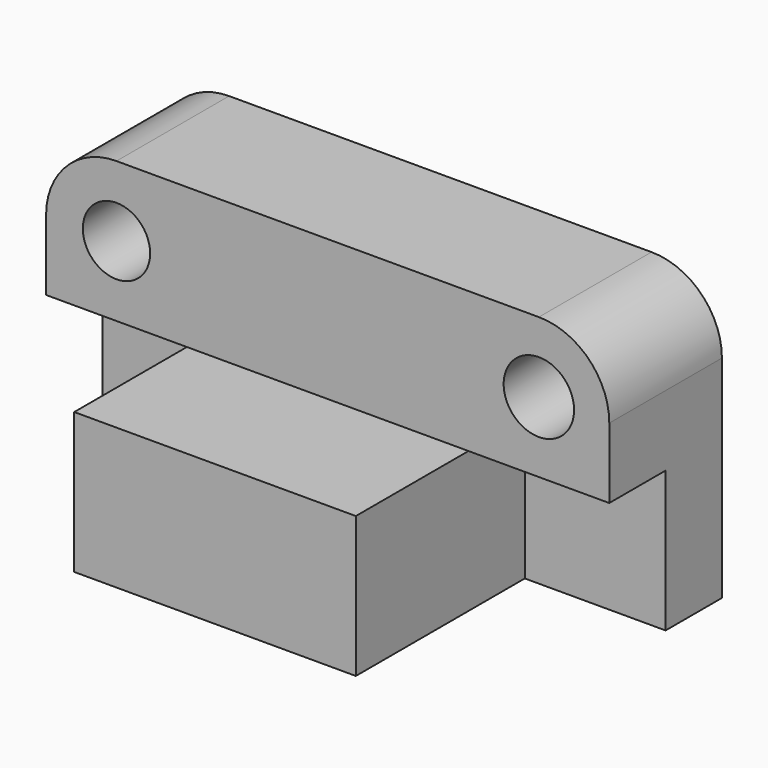
from build123d import *

# Parameters (mm, degrees)
F0_W      = 203.2
F0_H      = 101.6
F1_DEPTH  = 76.2
F2_W      = 50.8
F2_H      = 50.8
F3_DEPTH  = 76.2
F4_W      = 50.8
F4_H      = 25.4
F5_DEPTH  = 50.8
F6_W      = 152.4
F6_H      = 25.4
F7_DEPTH  = 50.8
F8_W      = 50.8
F8_H      = 50.8
F9_DEPTH  = 76.2
F10_W     = 203.2
F10_H     = 50.8
F11_DEPTH = 25.4
F12_R     = 25.4
F13_R     = 25.4
F14_R     = 12.147807
F15_DEPTH = 76.2
F16_R     = 12.7
F17_DEPTH = 50.801


with BuildPart() as f1:
    # F0 (on Top) → F1 (new body)
    with BuildSketch(Plane.XY):
        with Locations((-52.603766, -35.422396)):
            Rectangle(F0_W, F0_H)
    extrude(amount=F1_DEPTH)

    # F2 (on face) → F3 (cut)
    with BuildSketch(Plane.XZ.offset(86.222396)):
        with Locations((23.596234, 25.4)):
            Rectangle(F2_W, F2_H)
    extrude(amount=-F3_DEPTH, mode=Mode.SUBTRACT)

    # F4 (on face) → F5 (cut)
    with BuildSketch(Plane.XZ.offset(86.222396)):
        with Locations((23.596234, 63.5)):
            Rectangle(F4_W, F4_H)
    extrude(amount=-F5_DEPTH, mode=Mode.SUBTRACT)

    # F6 (on face) → F7 (cut)
    with BuildSketch(Plane.XZ.offset(86.222396)):
        with Locations((-78.003766, 63.5)):
            Rectangle(F6_W, F6_H)
    extrude(amount=-F7_DEPTH, mode=Mode.SUBTRACT)

    # F8 (on face) → F9 (cut)
    with BuildSketch(Plane.XZ.offset(86.222396)):
        with Locations((-128.803766, 25.4)):
            Rectangle(F8_W, F8_H)
    extrude(amount=-F9_DEPTH, mode=Mode.SUBTRACT)

    # F10 (on face) → F11 (join)
    with BuildSketch(Plane.XY.offset(76.2)):
        with Locations((-52.603766, -10.022396)):
            Rectangle(F10_W, F10_H)
    extrude(amount=F11_DEPTH)

    # F12
    f12_edges = [f1.edges().sort_by_distance(p)[0] for p in [
        (-154.203766, -10.022396, 101.6),
    ]]
    fillet(f12_edges, radius=F12_R)

    # F13
    f13_edges = [f1.edges().sort_by_distance(p)[0] for p in [
        (48.996234, -10.022396, 101.6),
    ]]
    fillet(f13_edges, radius=F13_R)

    # F14 (on face) → F15 (cut)
    with BuildSketch(Plane.XZ.offset(35.422396)):
        with Locations((-128.803766, 76.2)):
            Circle(F14_R)
    extrude(amount=-F15_DEPTH, mode=Mode.SUBTRACT)

    # F16 (on face) → F17 (cut, through all)
    with BuildSketch(Plane.XZ.offset(35.422396)):
        with Locations((23.596234, 76.2)):
            Circle(F16_R)
    extrude(amount=-F17_DEPTH, mode=Mode.SUBTRACT)


solid = f1.part
